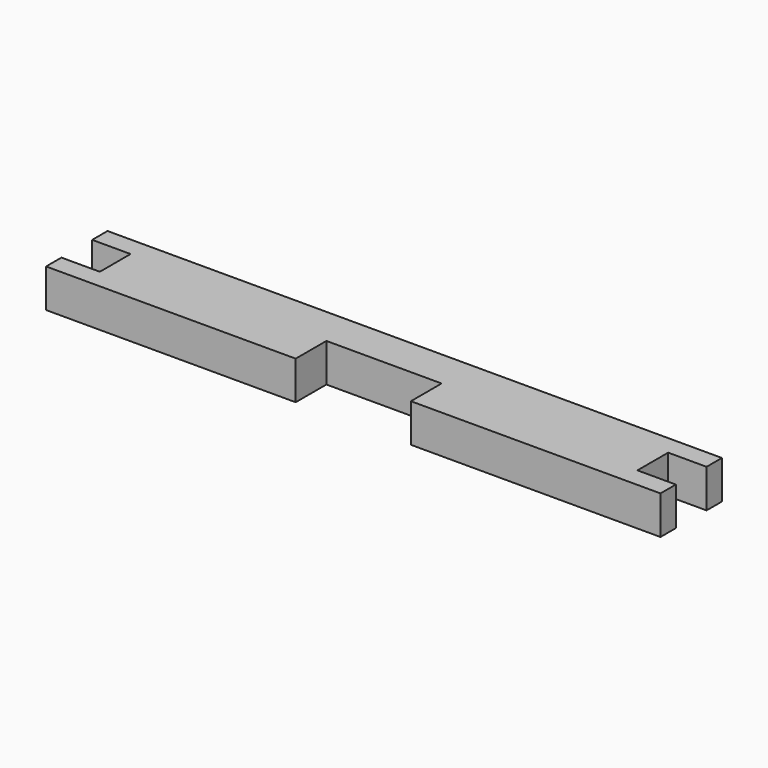
from build123d import *

# Parameters (mm, degrees)
F1_DEPTH = 6.35


with BuildPart() as f1:
    # F0 (on Top) → F1 (new body)
    with BuildSketch(Plane.XY):
        Polygon((101.6, 0), (0, 0), (0, -3.175), (6.35, -3.175), (6.35, -9.525), (0, -9.525), (0, -12.7), (41.275, -12.7), (41.275, -6.35), (60.325, -6.35), (60.325, -12.7), (101.6, -12.7), (101.6, -9.525), (95.25, -9.525), (95.25, -3.175), (101.6, -3.175), align=None)
    extrude(amount=F1_DEPTH)


solid = f1.part
